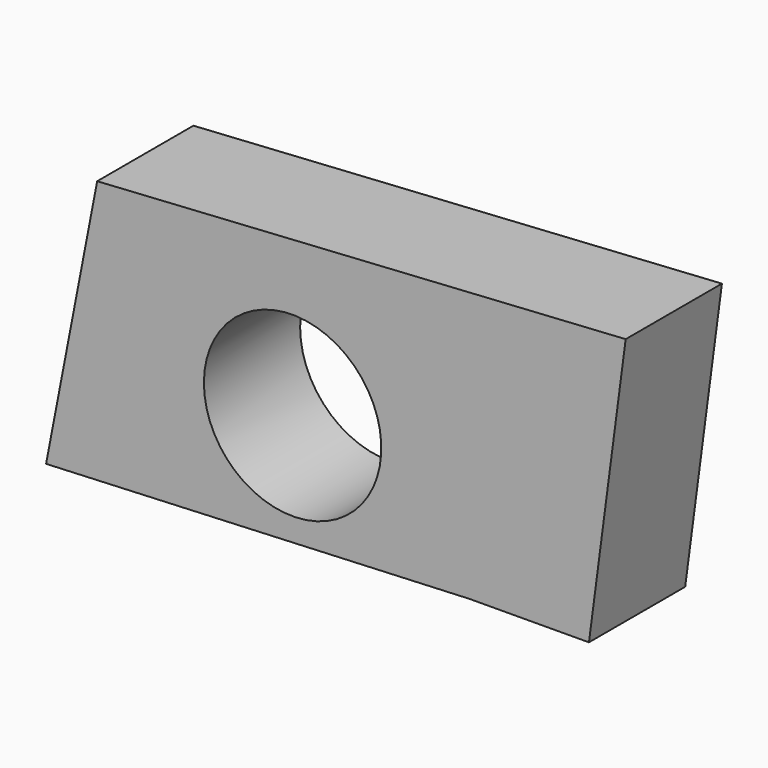
from build123d import *

# Parameters (mm, degrees)
F1_DEPTH = 25.4
F2_R     = 18.728572
F3_DEPTH = 25.4


with BuildPart() as f1:
    # F0 (on Front) → F1 (new body)
    with BuildSketch(Plane.XZ):
        Polygon((-89.339584, -8.090763), (0, -4.123797), (25.28479, -3.994782), (33.038791, 54.881528), (-78.551404, 47.953002), align=None)
    extrude(amount=F1_DEPTH)

    # F2 (on face) → F3 (cut)
    with BuildSketch(Plane(origin=(0, 0, 0), x_dir=(-1, 0, 0), z_dir=(0, 1, 0))):
        with Locations((37.289418, 17.826317)):
            Circle(F2_R)
    extrude(amount=-F3_DEPTH, mode=Mode.SUBTRACT)


solid = f1.part
